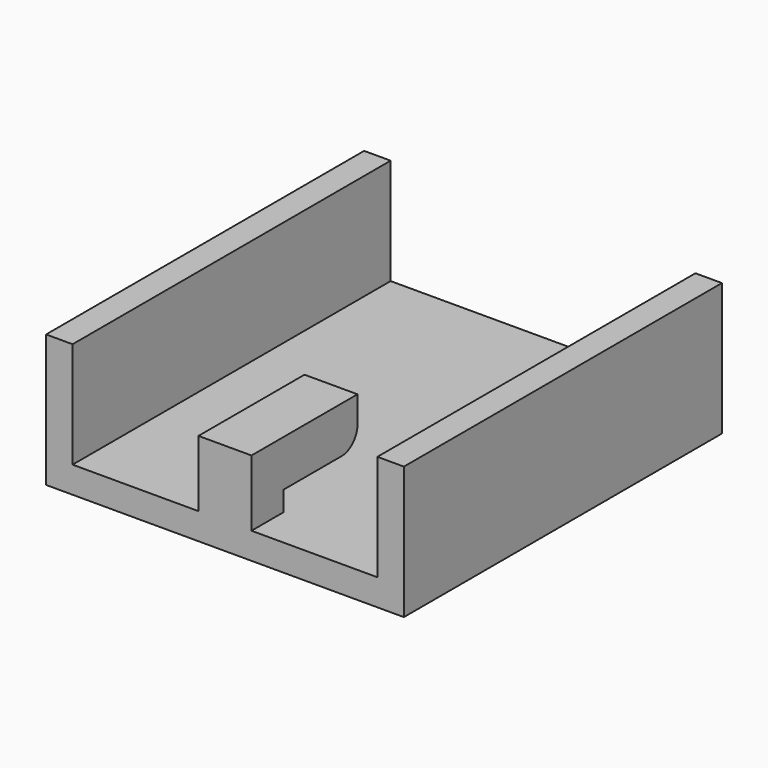
from build123d import *

# Parameters (mm, degrees)
F1_DEPTH  = 2
F0_W      = 2
F0_H      = 35
F2_DEPTH  = 10
F0_W_2    = 4
F0_H_2    = 5
F3_DEPTH  = 7
F4_W      = 4
F4_H      = 3.5
F5_DEPTH  = 5
F6_R      = 1.5
F7_DEPTH  = 2
F8_DEPTH  = 5
F9_DEPTH  = 5
F10_DEPTH = 5


with BuildPart() as f1:
    # F0 (on Top) → F1 (new body)
    with BuildSketch(Plane.XY):
        Polygon((11.5, 17.5), (-11.5, 17.5), (-11.5, -17.5), (-2, -17.5), (2, -17.5), (11.5, -17.5), align=None)
    extrude(amount=F1_DEPTH)

    # F0 (on Top) → F2 (join)
    with BuildSketch(Plane.XY):
        with Locations((-12.5, 0)):
            Rectangle(F0_W, F0_H)
        with Locations((12.5, 0)):
            Rectangle(F0_W, F0_H)
    extrude(amount=F2_DEPTH)

    # F0 (on Top) → F3 (join)
    with BuildSketch(Plane.XY):
        with Locations((0, -20)):
            Rectangle(F0_W_2, F0_H_2)
    extrude(amount=F3_DEPTH)

    # F4 (on face) → F5 (join)
    with BuildSketch(Plane(origin=(0, -17.5, 0), x_dir=(-1, 0, 0), z_dir=(0, 1, 0))):
        with Locations((0, 5.25)):
            Rectangle(F4_W, F4_H)
    extrude(amount=F5_DEPTH)

    # F6
    f6_edges = [f1.edges().sort_by_distance(p)[0] for p in [
        (0, -12.5, 3.5),
    ]]
    fillet(f6_edges, radius=F6_R)

    # F7 (cut): a face of the model
    f7_faces = [f1.faces().sort_by_distance(p)[0] for p in [
        (0, -17.5, 2.75),
    ]]
    extrude(f7_faces, amount=-F7_DEPTH, mode=Mode.SUBTRACT)

    # F8 (cut): a face of the model
    f8_faces = [f1.faces().sort_by_distance(p)[0] for p in [
        (0, 17.5, 0.287923601),
    ]]
    extrude(f8_faces, amount=-F8_DEPTH, mode=Mode.SUBTRACT)

    # F9 (add): faces of the model
    f9_faces = [f1.faces().sort_by_distance(p)[0] for p in [
        (6.75, -17.5, 1.8476024935),
        (-6.75, -17.5, 1.8476024935),
    ]]
    extrude(f9_faces, amount=F9_DEPTH)

    # F10 (cut): a face of the model
    f10_faces = [f1.faces().sort_by_distance(p)[0] for p in [
        (0, 12.5, 0.287923601),
    ]]
    extrude(f10_faces, amount=-F10_DEPTH, mode=Mode.SUBTRACT)


solid = f1.part
